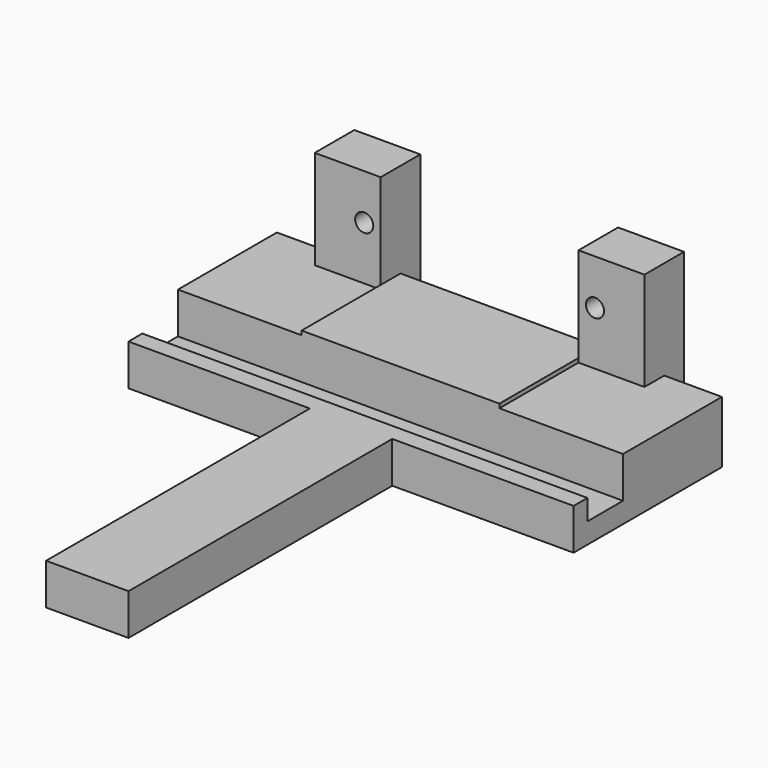
from build123d import *

# Parameters (mm, degrees)
SKETCH_W        = 54
SKETCH_H        = 22.5
PAD_DEPTH       = 2.5
SKETCH001_W     = 54
SKETCH001_H     = 2.1
PAD001_DEPTH    = 2.5
SKETCH002_W     = 10
SKETCH002_H     = 5
PAD002_DEPTH    = 40
SKETCH003_W     = 54
SKETCH003_H     = 15
PAD003_DEPTH    = 5
SKETCH004_W     = 8
SKETCH004_H     = 3
PAD004_DEPTH    = 12
SKETCH005_R     = 1.1
POCKET_DEPTH    = 10
SKETCH006_W     = 8
SKETCH006_H     = 19.5
PAD005_DEPTH    = 3
SKETCH007_R     = 1.1
POCKET001_DEPTH = 5
SKETCH008_W     = 24
SKETCH008_H     = 15
PAD006_DEPTH    = 0.5


with BuildPart() as part:
    # Sketch → Pad (new body)
    with BuildSketch(Plane.XY):
        with Locations((0, -11.25)):
            Rectangle(SKETCH_W, SKETCH_H)
    extrude(amount=PAD_DEPTH)

    # Sketch001 (on Face6 of Pad) → Pad001 (join)
    with BuildSketch(Plane.XY.offset(2.5)):
        with Locations((0, -21.45)):
            Rectangle(SKETCH001_W, SKETCH001_H)
    extrude(amount=PAD001_DEPTH)

    # Sketch002 (on Face10 of Pad001) → Pad002 (join)
    with BuildSketch(Plane.XZ.offset(22.5)):
        with Locations((0, 2.5)):
            Rectangle(SKETCH002_W, SKETCH002_H)
    extrude(amount=PAD002_DEPTH)

    # Sketch003 (on Face5 of Pad002) → Pad003 (join)
    with BuildSketch(Plane.XY.offset(2.5)):
        with Locations((0, -7.5)):
            Rectangle(SKETCH003_W, SKETCH003_H)
    extrude(amount=PAD003_DEPTH)

    # Sketch004 (on Face14 of Pad003) → Pad004 (join)
    with BuildSketch(Plane.XY.offset(7.5)):
        with Locations((16, -1.5)):
            Rectangle(SKETCH004_W, SKETCH004_H)
        with Locations((-16, -1.5)):
            Rectangle(SKETCH004_W, SKETCH004_H)
    extrude(amount=PAD004_DEPTH)

    # Sketch005 (on Face26 of Pad004) → Pocket (cut)
    with BuildSketch(Plane.XZ.offset(3)):
        with Locations((-14, 14)):
            Circle(SKETCH005_R)
        with Locations((14, 14)):
            Circle(SKETCH005_R)
    extrude(amount=-POCKET_DEPTH, mode=Mode.SUBTRACT)

    # Sketch006 (on Face5 of Pocket) → Pad005 (join)
    with BuildSketch(Plane(origin=(0, 0, 0), x_dir=(-1, 0, 0), z_dir=(0, 1, 0))):
        with Locations((-16, 9.75)):
            Rectangle(SKETCH006_W, SKETCH006_H)
        with Locations((16, 9.75)):
            Rectangle(SKETCH006_W, SKETCH006_H)
    extrude(amount=PAD005_DEPTH)

    # Sketch007 (on Face49 of Pad005) → Pocket001 (cut)
    with BuildSketch(Plane.XZ):
        with Locations((-14, 14)):
            Circle(SKETCH007_R)
        with Locations((14, 14)):
            Circle(SKETCH007_R)
    extrude(amount=-POCKET001_DEPTH, mode=Mode.SUBTRACT)

    # Sketch008 (on Face17 of Pocket001) → Pad006 (join)
    with BuildSketch(Plane.XY.offset(7.5)):
        with Locations((0, -7.5)):
            Rectangle(SKETCH008_W, SKETCH008_H)
    extrude(amount=PAD006_DEPTH)


solid = part.part
